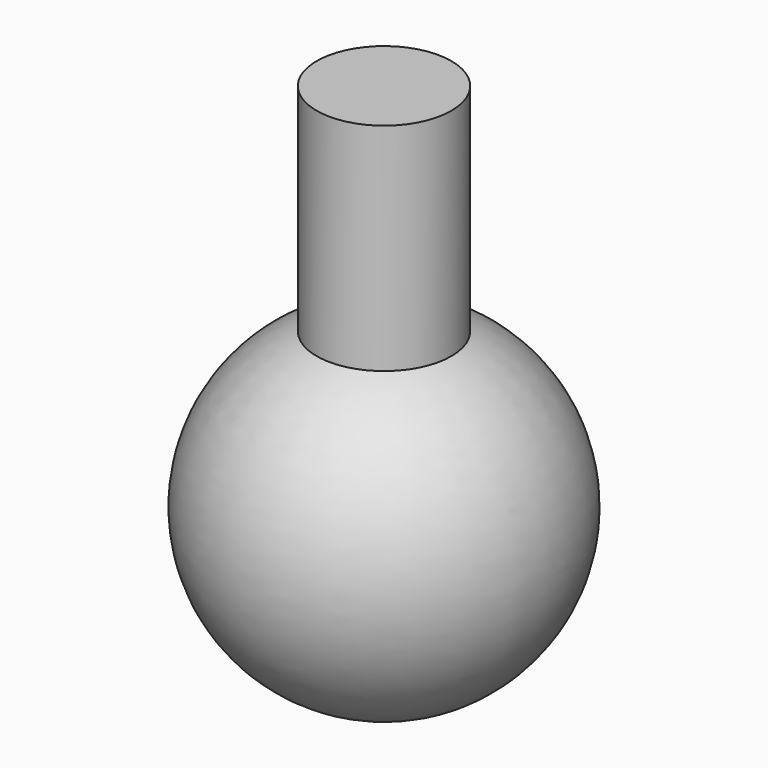
from build123d import *


with BuildPart() as f1:
    # F0 (on Front) → F1 (revolve)
    with BuildSketch(Plane.XZ):
        with BuildLine():
            Line((0, 69.85), (0, -31.75))
            ThreePointArc((0, -31.75), (31.080275, -6.486831), (12.7, 29.099356))
            Line((12.7, 29.099356), (12.7, 69.85))
            Line((12.7, 69.85), (0, 69.85))
        make_face()
    revolve(axis=Axis((0, 0, 19.05), (0, 0, 1)))


solid = f1.part
